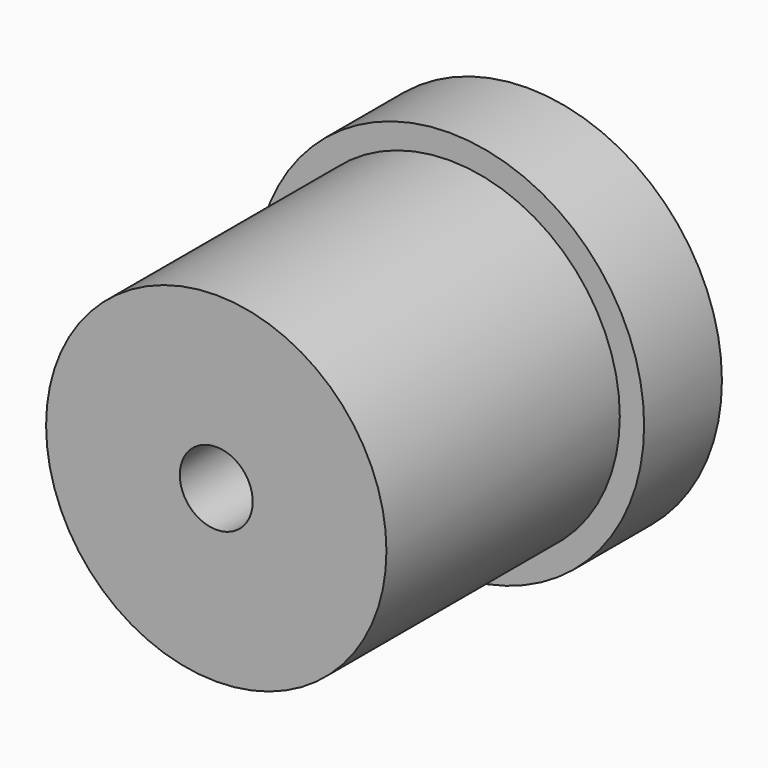
from build123d import *

# Parameters (mm, degrees)
F0_R     = 8
F1_DEPTH = 4
F2_R     = 7
F3_DEPTH = 12
F4_R     = 1.5
F5_DEPTH = 16.001
F6_R     = 0.025
F7_DEPTH = 5


with BuildPart() as f1:
    # F0 (on Front) → F1 (new body)
    with BuildSketch(Plane.XZ):
        Circle(F0_R)
    extrude(amount=F1_DEPTH)

    # F2 (on face) → F3 (join)
    with BuildSketch(Plane.XZ.offset(4)):
        Circle(F2_R)
    extrude(amount=F3_DEPTH)

    # F4 (on face) → F5 (cut, through all)
    with BuildSketch(Plane(origin=(0, 0, 0), x_dir=(-1, 0, 0), z_dir=(0, 1, 0))):
        Circle(F4_R)
    extrude(amount=-F5_DEPTH, mode=Mode.SUBTRACT)

    # F6 (on face) → F7 (cut)
    with BuildSketch(Plane(origin=(0, 0, 0), x_dir=(-1, 0, 0), z_dir=(0, 1, 0))):
        with Locations((-3.991511, 0.260457)):
            Circle(F6_R)
    extrude(amount=-F7_DEPTH, mode=Mode.SUBTRACT)


solid = f1.part
